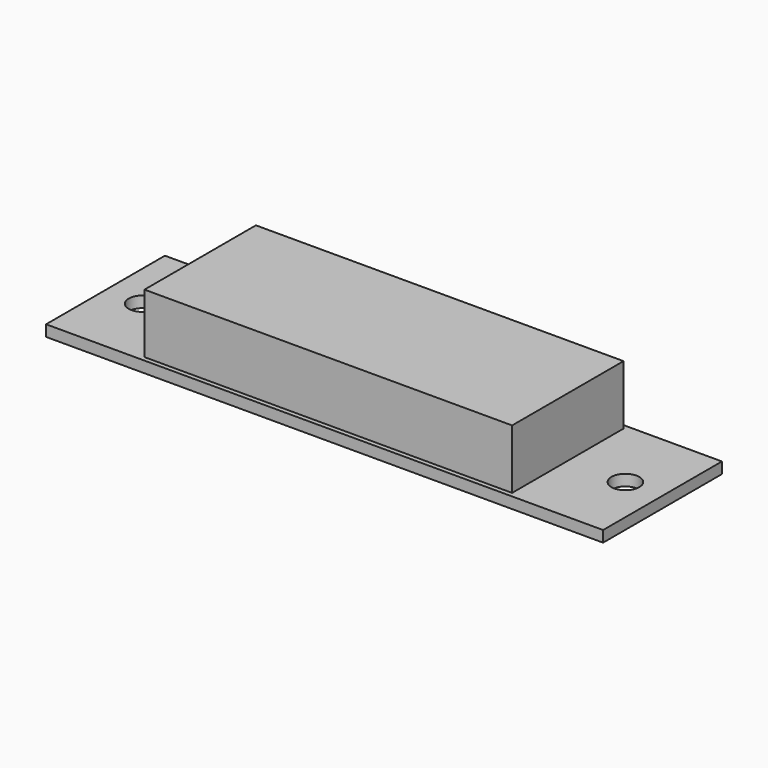
from build123d import *

# Parameters (mm, degrees)
F0_W      = 76.2
F0_H      = 20.32
F0_R      = 1.905
F1_DEPTH  = 1.524
F2_W      = 50.292
F2_H      = 19.05
F3_DEPTH  = 8.128
F4_W      = 53.467
F4_H      = 35.814
F4_R      = 1.905
F5_DEPTH  = 1.6002
F6_W      = 25.4
F6_H      = 10.16
F7_DEPTH  = 8.128
F8_R      = 1.15
F9_DEPTH  = 3
F11_DEPTH = 3.6
F12_W     = 25
F12_H     = 5
F13_DEPTH = 1.6


with BuildPart() as f1:
    # F0 (on Top) → F1 (new body)
    with BuildSketch(Plane.XY):
        Rectangle(F0_W, F0_H)
        with Locations((-33.02, 0)):
            Circle(F0_R, mode=Mode.SUBTRACT)
        with Locations((33.02, 0)):
            Circle(F0_R, mode=Mode.SUBTRACT)
    extrude(amount=F1_DEPTH)

    # F2 (on face) → F3 (join)
    with BuildSketch(Plane.XY.offset(1.524)):
        Rectangle(F2_W, F2_H)
    extrude(amount=F3_DEPTH)


with BuildPart() as f5:
    # F4 (on Top) → F5 (new body)
    with BuildSketch(Plane.XY):
        with Locations((55.63927, 42.330817)):
            Rectangle(F4_W, F4_H)
        with Locations((33.98577, 40.933817)):
            Circle(F4_R, mode=Mode.SUBTRACT)
        with Locations((72.08577, 40.933817)):
            Circle(F4_R, mode=Mode.SUBTRACT)
    extrude(amount=F5_DEPTH)

    # F6 (on face) → F7 (join)
    with BuildSketch(Plane.XY.offset(1.6002)):
        with Locations((53.03577, 40.933817)):
            Rectangle(F6_W, F6_H)
    extrude(amount=F7_DEPTH)


with BuildPart() as f9:
    # F8 (on Top) → F9 (new body)
    with BuildSketch(Plane.XY):
        with BuildLine():
            ThreePointArc((34.542687, -63.528296), (35.27492, -65.296063), (37.042687, -66.028296))
            Line((37.042687, -66.028296), (97.042687, -66.028296))
            ThreePointArc((97.042687, -66.028296), (98.810454, -65.296063), (99.542687, -63.528296))
            Line((99.542687, -63.528296), (99.542687, -4.528296))
            ThreePointArc((99.542687, -4.528296), (98.810454, -2.760529), (97.042687, -2.028296))
            Line((97.042687, -2.028296), (37.042687, -2.028296))
            ThreePointArc((37.042687, -2.028296), (35.27492, -2.760529), (34.542687, -4.528296))
            Line((34.542687, -4.528296), (34.542687, -63.528296))
        make_face()
        with Locations((37.042687, -63.528296)):
            Circle(F8_R, mode=Mode.SUBTRACT)
        with Locations((97.042687, -63.528296)):
            Circle(F8_R, mode=Mode.SUBTRACT)
        with Locations((37.042687, -4.528296)):
            Circle(F8_R, mode=Mode.SUBTRACT)
        with Locations((97.042687, -4.528296)):
            Circle(F8_R, mode=Mode.SUBTRACT)
    extrude(amount=F9_DEPTH)

    # F10 (on face) → F11 (join)
    with BuildSketch(Plane.XY.offset(3)):
        with BuildLine():
            Line((93.042687, -5.528296), (41.042687, -5.528296))
            ThreePointArc((41.042687, -5.528296), (38.21426, -6.699869), (37.042687, -9.528296))
            Line((37.042687, -9.528296), (37.042687, -58.528296))
            ThreePointArc((37.042687, -58.528296), (38.21426, -61.356723), (41.042687, -62.528296))
            Line((41.042687, -62.528296), (93.042687, -62.528296))
            ThreePointArc((93.042687, -62.528296), (95.871114, -61.356723), (97.042687, -58.528296))
            Line((97.042687, -58.528296), (97.042687, -9.528296))
            ThreePointArc((97.042687, -9.528296), (95.871114, -6.699869), (93.042687, -5.528296))
        make_face()
    extrude(amount=F11_DEPTH)

    # F12 (on face) → F13 (join)
    with BuildSketch(Plane(origin=(0, 0, 0), x_dir=(1, 0, 0), z_dir=(0, 0, -1))):
        with Locations((54.542687, 68.528296)):
            Rectangle(F12_W, F12_H)
        with Locations((79.542687, 68.528296)):
            Rectangle(F12_W, F12_H)
    extrude(amount=-F13_DEPTH)


solid = f1.part
